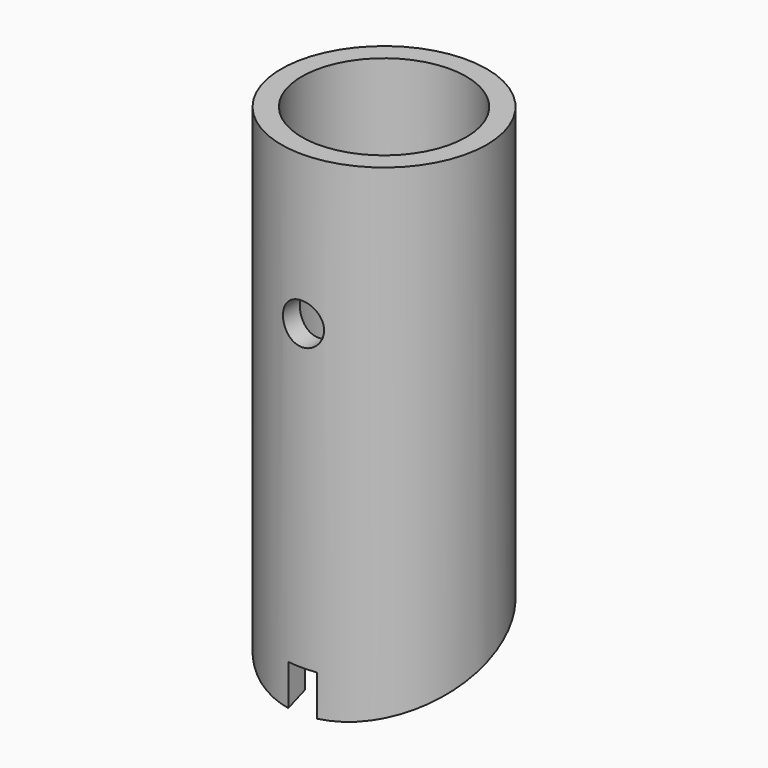
from build123d import *

# Parameters (mm, degrees)
F0_R     = 31.75
F0_R_2   = 25.4
F1_DEPTH = 152.4
F3_DEPTH = 31.75
F4_R     = 6.35
F5_DEPTH = 31.75
F6_W     = 8.89
F6_H     = 25.4
F7_DEPTH = 38.1


with BuildPart() as f1:
    # F0 (on Top) → F1 (new body)
    with BuildSketch(Plane.XY):
        Circle(F0_R)
        Circle(F0_R_2, mode=Mode.SUBTRACT)
    extrude(amount=F1_DEPTH)

    # F2 (on Right) → F3 (cut, symmetric)
    with BuildSketch(Plane.YZ):
        Polygon((-31.75, 0), (31.75, 0), (31.75, 23.1121098759), align=None)
    extrude(amount=F3_DEPTH, both=True, mode=Mode.SUBTRACT)

    # F4 (on Front) → F5 (cut, symmetric)
    with BuildSketch(Plane.XZ):
        with Locations((0, 106.2535495254)):
            Circle(F4_R)
    extrude(amount=F5_DEPTH, both=True, mode=Mode.SUBTRACT)

    # F6 (on Front) → F7 (cut)
    with BuildSketch(Plane.XZ):
        Rectangle(F6_W, F6_H)
    extrude(amount=F7_DEPTH, mode=Mode.SUBTRACT)


solid = f1.part
